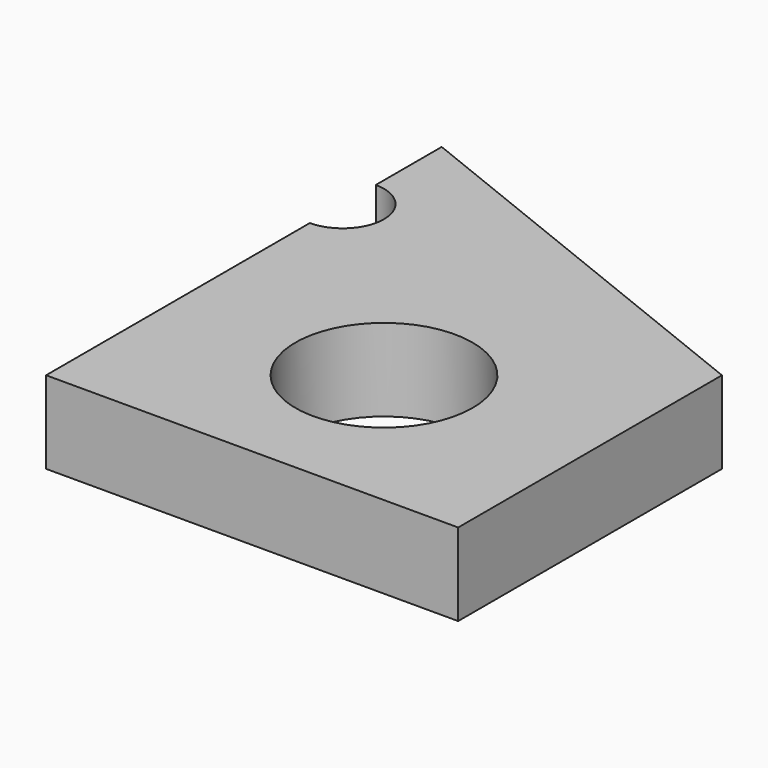
from build123d import *

# Parameters (mm, degrees)
F0_W     = 12.7
F0_H     = 10.16
F1_DEPTH = 2.54
F3_DEPTH = 25.4
F4_R     = 2.7305
F5_DEPTH = 25.4


with BuildPart() as f1:
    # F0 (on Top) → F1 (new body)
    with BuildSketch(Plane.XY):
        Rectangle(F0_W, F0_H)
        Polygon((-6.35, 5.08), (6.35, 5.08), (-6.35, 10.16), align=None)
    extrude(amount=F1_DEPTH)

    # F2 (on face) → F3 (cut)
    with BuildSketch(Plane.XY.offset(2.54)):
        with BuildLine():
            ThreePointArc((-6.35, 5.08), (-5.451974, 5.451974), (-5.08, 6.35))
            ThreePointArc((-5.08, 6.35), (-7.248026, 7.248026), (-6.35, 5.08))
        make_face()
    extrude(amount=-F3_DEPTH, mode=Mode.SUBTRACT)

    # F4 (on face) → F5 (cut)
    with BuildSketch(Plane.XY.offset(2.54)):
        Circle(F4_R)
    extrude(amount=-F5_DEPTH, mode=Mode.SUBTRACT)


solid = f1.part
